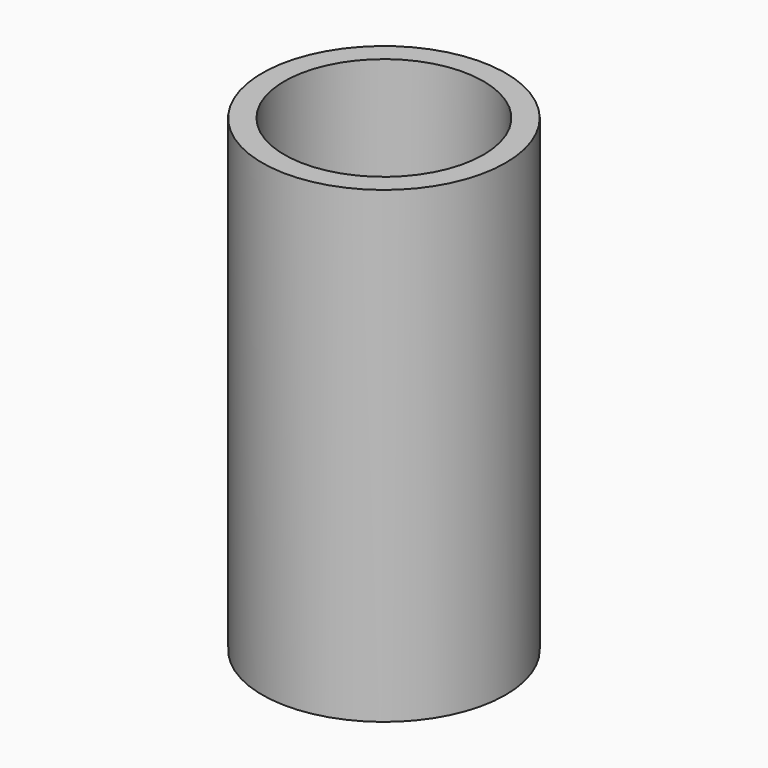
from build123d import *

# Parameters (mm, degrees)
F0_R     = 8.25
F0_R_2   = 6.75
F1_DEPTH = 31.75
F2_R     = 8.076927
F3_DEPTH = 2
F4_R     = 5
F5_DEPTH = 25


with BuildPart() as f1:
    # F0 (on Top) → F1 (new body)
    with BuildSketch(Plane.XY):
        Circle(F0_R)
        Circle(F0_R_2, mode=Mode.SUBTRACT)
    extrude(amount=F1_DEPTH)

    # F2 (on Top) → F3 (join)
    with BuildSketch(Plane.XY):
        Circle(F2_R)
    extrude(amount=F3_DEPTH)

    # F4 (on face) → F5 (cut)
    with BuildSketch(Plane(origin=(0, 0, 0), x_dir=(1, 0, 0), z_dir=(0, 0, -1))):
        Circle(F4_R)
    extrude(amount=-F5_DEPTH, mode=Mode.SUBTRACT)


solid = f1.part
